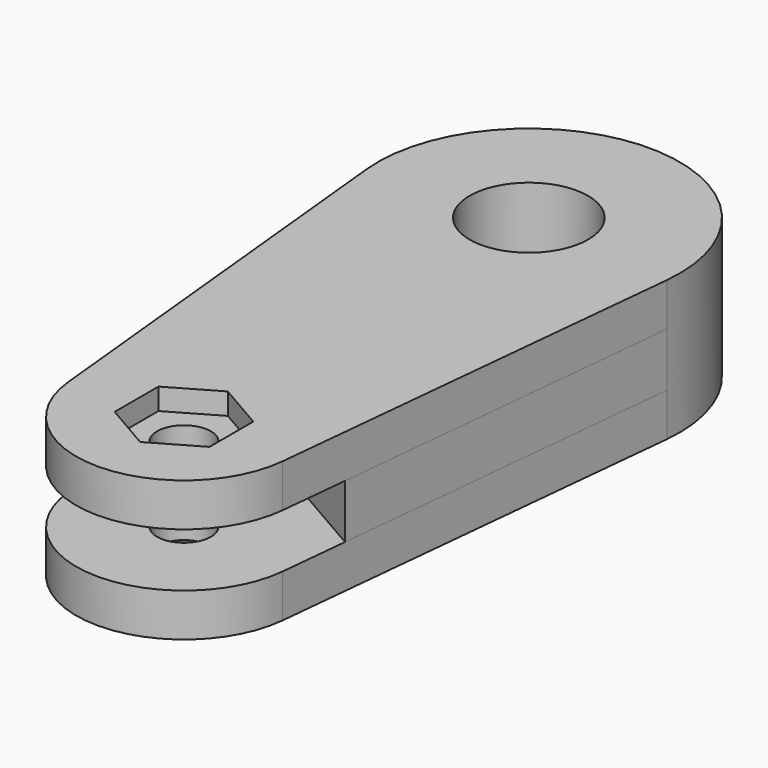
from build123d import *

# Parameters (mm, degrees)
SKETCH_R      = 2.75
SKETCH_R_2    = 1.25
PAD_DEPTH     = 2
SKETCH001_R   = 4.75
SKETCH001_R_2 = 2.75
PAD001_DEPTH  = 2
SKETCH002_R   = 2.75
PAD002_DEPTH  = 2.5
SKETCH003_R   = 2.75
SKETCH003_R_2 = 1.25
PAD003_DEPTH  = 2
POCKET_DEPTH  = 1


with BuildPart() as part:
    # Sketch → Pad (new body)
    with BuildSketch(Plane.XY):
        with BuildLine():
            ThreePointArc((6.964912, -0.7), (0, 7), (-6.964912, -0.7))
            Line((-6.964912, -0.7), (-4.974937, -20.5))
            ThreePointArc((-4.974937, -20.5), (0, -25), (4.974937, -20.5))
            Line((6.964912, -0.7), (4.974937, -20.5))
        make_face()
        Circle(SKETCH_R, mode=Mode.SUBTRACT)
        with Locations((0, -20)):
            Circle(SKETCH_R_2, mode=Mode.SUBTRACT)
    extrude(amount=PAD_DEPTH)

    # Sketch001 (on DatumPlane) → Pad001 (join)
    with BuildSketch(Plane.XY.offset(2)):
        Circle(SKETCH001_R)
        Circle(SKETCH001_R_2, mode=Mode.SUBTRACT)
    extrude(amount=PAD001_DEPTH)

    # Sketch002 (on DatumPlane) → Pad002 (join)
    with BuildSketch(Plane.XY.offset(2)):
        with BuildLine():
            Line((-5.950745, -10.790833), (5.298025, -17.285314))
            Line((6.964912, -0.7), (5.298025, -17.285314))
            ThreePointArc((6.964912, -0.7), (0, 7), (-6.964912, -0.7))
            Line((-6.964912, -0.7), (-5.950745, -10.790833))
        make_face()
        Circle(SKETCH002_R, mode=Mode.SUBTRACT)
    extrude(amount=PAD002_DEPTH)

    # Sketch003 (on DatumPlane) → Pad003 (join)
    with BuildSketch(Plane.XY.offset(4.5)):
        with BuildLine():
            ThreePointArc((6.964912, -0.7), (0, 7), (-6.964912, -0.7))
            Line((-6.964912, -0.7), (-4.974937, -20.5))
            ThreePointArc((-4.974937, -20.5), (0, -25), (4.974937, -20.5))
            Line((6.964912, -0.7), (4.974937, -20.5))
        make_face()
        Circle(SKETCH003_R, mode=Mode.SUBTRACT)
        with Locations((0, -20)):
            Circle(SKETCH003_R_2, mode=Mode.SUBTRACT)
    extrude(amount=PAD003_DEPTH)

    # Sketch007 (on DatumPlane) → Pocket (cut)
    with BuildSketch(Plane.XY.offset(6.5)):
        Polygon((2.2, -21.270171), (2.2, -18.729829), (0, -17.459659), (-2.2, -18.729829), (-2.2, -21.270171), (0, -22.540341), align=None)
    extrude(amount=-POCKET_DEPTH, mode=Mode.SUBTRACT)

    # Sketch008 → Groove (revolve, cut)
    with BuildSketch(Plane.YZ):
        Polygon((-20, 0), (-18.1, 0), (-18.9, 1), (-20, 1), align=None)
    revolve(axis=Axis((0, -20, 0), (0, 0, 1)), mode=Mode.SUBTRACT)


solid = part.part
